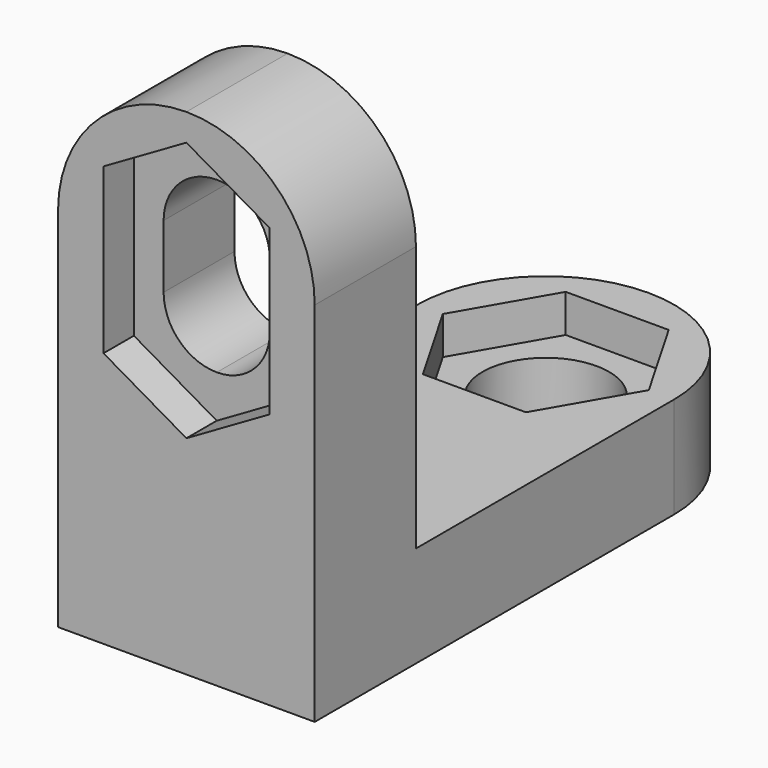
from build123d import *

# Parameters (mm, degrees)
PAD_DEPTH       = 8
PAD001_DEPTH    = 10
POCKET_DEPTH    = 3
POCKET001_DEPTH = 3


with BuildPart() as part:
    # Sketch → Pad (new body)
    with BuildSketch(Plane.XY):
        with BuildLine():
            ThreePointArc((0, 30.5), (5, 35.5), (0, 40.5))
            Line((0, 40.5), (0, 45.640639))
            ThreePointArc((10.140639, 35.499973), (7.170524, 42.670505), (0, 45.640639))
            Line((10.140639, 35.499973), (10.140639, 0))
            Line((0, 0), (10.140639, 0))
            Line((0, 30.5), (0, 0))
        make_face()
    pad = extrude(amount=PAD_DEPTH)

    # Sketch001 (on Face6 of Pad) → Pad001 (join)
    with BuildSketch(Plane.XZ):
        with BuildLine():
            ThreePointArc((10.140639, 28.999961), (7.170518, 36.170482), (0, 39.14061))
            Line((0, 39.14061), (0, 33.199971))
            ThreePointArc((4.2, 28.999985), (2.969843, 31.969824), (0, 33.199971))
            Line((4.2, 23.999985), (4.2, 28.999985))
            ThreePointArc((0, 19.8), (2.969843, 21.030146), (4.2, 23.999985))
            Line((0, 19.8), (0, 8))
            Line((0, 8), (10.140639, 8))
            Line((10.140639, 8), (10.140639, 28.999961))
        make_face()
    pad001 = extrude(amount=-PAD001_DEPTH)

    # Sketch002 (on Face9 of Pad001) → Pocket (cut)
    with BuildSketch(Plane.XZ):
        Polygon((0, 16.436711), (6.55, 20.218356), (6.55, 33.218356), (0, 37), align=None)
    pocket = extrude(amount=-POCKET_DEPTH, mode=Mode.SUBTRACT)

    # Sketch003 (on Face5 of Pocket) → Pocket001 (cut)
    with BuildSketch(Plane.XY.offset(8)):
        Polygon((4.070319, 28.45), (8.140639, 35.5), (4.070319, 42.55), (0, 42.55), (0, 28.45), align=None)
    pocket001 = extrude(amount=-POCKET001_DEPTH, mode=Mode.SUBTRACT)

    # Mirrored: Pad, Pad001, Pocket, Pocket001 across Sketch V_Axis
    add(pad.mirror(Plane(origin=(0, 0, 0), x_dir=(0, 0, 1), z_dir=(1, 0, 0))))
    add(pad001.mirror(Plane(origin=(0, 0, 0), x_dir=(0, 0, 1), z_dir=(1, 0, 0))))
    add(pocket.mirror(Plane(origin=(0, 0, 0), x_dir=(0, 0, 1), z_dir=(1, 0, 0))), mode=Mode.SUBTRACT)
    add(pocket001.mirror(Plane(origin=(0, 0, 0), x_dir=(0, 0, 1), z_dir=(1, 0, 0))), mode=Mode.SUBTRACT)


solid = part.part
